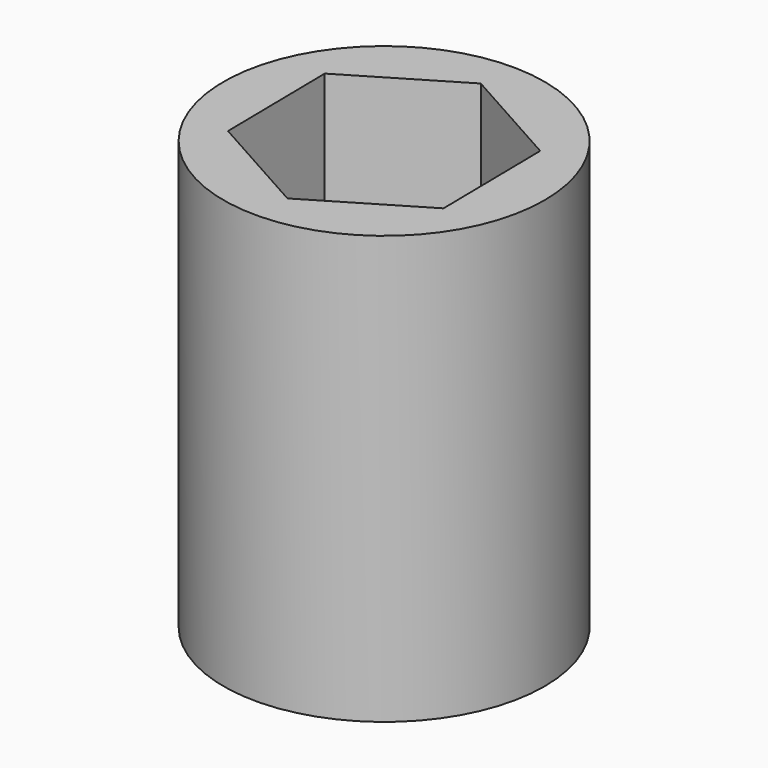
from build123d import *

# Parameters (mm, degrees)
F0_R     = 9.525
F1_DEPTH = 25.4
F3_DEPTH = 25.401
F4_DEPTH = 11.0998
F6_DEPTH = 9.525


with BuildPart() as f1:
    # F0 (on Top) → F1 (new body)
    with BuildSketch(Plane.XY):
        Circle(F0_R)
    extrude(amount=F1_DEPTH)

    # F2 (on Top) → F3 (cut, through all)
    with BuildSketch(Plane.XY):
        with BuildLine():
            ThreePointArc((-4.7625, 0), (-3.367596, -3.367596), (0, -4.7625))
            ThreePointArc((0, -4.7625), (3.367596, -3.367596), (4.7625, 0))
            ThreePointArc((4.7625, 0), (3.367596, 3.367596), (0, 4.7625))
            ThreePointArc((0, 4.7625), (-3.367596, 3.367596), (-4.7625, 0))
        make_face()
    extrude(amount=F3_DEPTH, mode=Mode.SUBTRACT)

    # F2 (on Top) → F4 (cut)
    with BuildSketch(Plane.XY):
        with BuildLine():
            Line((0, -4.7625), (4.7625, -4.7625))
            Line((4.7625, -4.7625), (4.7625, 0))
            ThreePointArc((4.7625, 0), (3.367596, -3.367596), (0, -4.7625))
        make_face()
        with BuildLine():
            Line((-4.7625, -4.7625), (0, -4.7625))
            ThreePointArc((0, -4.7625), (-3.367596, -3.367596), (-4.7625, 0))
            Line((-4.7625, 0), (-4.7625, -4.7625))
        make_face()
        with BuildLine():
            ThreePointArc((0, 4.7625), (3.367596, 3.367596), (4.7625, 0))
            Line((4.7625, 0), (4.7625, 4.7625))
            Line((4.7625, 4.7625), (0, 4.7625))
        make_face()
        with BuildLine():
            Line((-4.7625, 4.7625), (-4.7625, 0))
            ThreePointArc((-4.7625, 0), (-3.367596, 3.367596), (0, 4.7625))
            Line((0, 4.7625), (-4.7625, 4.7625))
        make_face()
    extrude(amount=F4_DEPTH, mode=Mode.SUBTRACT)

    # F5 (on face) → F6 (cut)
    with BuildSketch(Plane.XY.offset(25.4)):
        Polygon((0.103503, -7.3025), (6.375902, -3.561614), (6.272399, 3.740886), (-0.103503, 7.3025), (-6.375902, 3.561614), (-6.272399, -3.740886), align=None)
    extrude(amount=-F6_DEPTH, mode=Mode.SUBTRACT)


solid = f1.part
